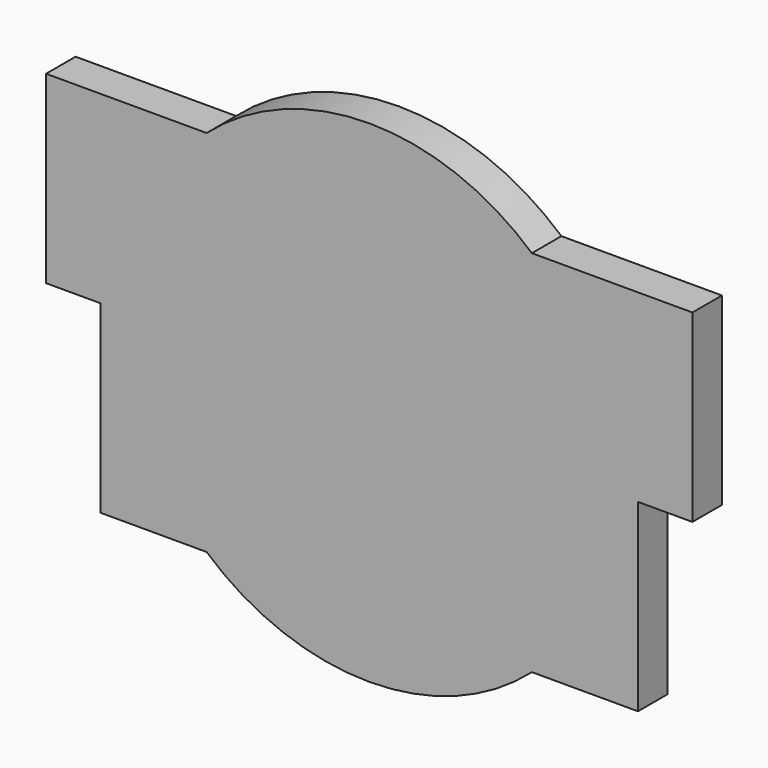
from build123d import *

# Parameters (mm, degrees)
F2_DEPTH = 2.1
F3_DEPTH = 1


with BuildPart() as f2:
    # F0 (on Front) → F2 (new body)
    with BuildSketch(Plane.XZ):
        with BuildLine():
            Line((-15.3, -10.5), (-9.2601295887, -10.5))
            ThreePointArc((-9.2601295887, -10.5), (0, -14), (9.2601295887, -10.5))
            Line((9.2601295887, -10.5), (15.3, -10.5))
            Line((15.3, -10.5), (15.3, 0))
            Line((15.3, 0), (18.4, 0))
            Line((18.4, 0), (18.4, 10.5))
            Line((18.4, 10.5), (9.2601295887, 10.5))
            ThreePointArc((9.2601295887, 10.5), (0, 14), (-9.2601295887, 10.5))
            Line((-9.2601295887, 10.5), (-18.4, 10.5))
            Line((-18.4, 10.5), (-18.4, 0))
            Line((-18.4, 0), (-15.3, 0))
            Line((-15.3, 0), (-15.3, -10.5))
        make_face()
    extrude(amount=F2_DEPTH)

    # F1 (on face) → F3 (cut)
    with BuildSketch(Plane.XZ):
        with BuildLine():
            add(Edge.make_bspline(
                [(-4.553868569, 7.5308077656), (-4.6187022127, 7.4665670768), (-4.7565465162, 7.3187932446), (-4.9689885783, 7.0481481864), (-5.1335006645, 6.7492444591), (-5.325903897, 6.4242233465), (-5.5158362824, 6.1706517061), (-5.6078179544, 5.9937013025), (-5.7446160317, 5.7081404625), (-5.9033298953, 5.2508820338), (-6.0791242374, 5.0130361926), (-6.1594103264, 4.6778886253), (-6.2778532417, 4.423662996), (-6.3326507428, 4.0777117905), (-6.4091625058, 3.7084680855), (-6.4143553131, 3.4672066463), (-6.4405345633, 3.206198915), (-6.4704656386, 2.8821690528), (-6.4827002242, 2.6416036699), (-6.477285954, 2.340550274), (-6.4497255377, 2.0112274522), (-6.3945977245, 1.6518171349), (-6.3058092302, 1.3107543234), (-6.178045217, 0.9102863772), (-6.0168086448, 0.4843102189), (-5.8067367239, 0.1110443935), (-5.5419287895, -0.2591563892), (-5.1870348593, -0.5372182371), (-4.8204833819, -0.9295960711), (-4.4223128535, -1.2049518241), (-4.0850736908, -1.4024631663), (-3.6676805295, -1.4866489323), (-3.2627988734, -1.4647949692), (-2.7150407813, -1.4643963241), (-2.2319229179, -1.2214576279), (-1.948150958, -0.8965008756), (-1.4717270817, -0.3356420109), (-1.2807784587, 0.4096518105), (-1.1258012801, 1.3572900633), (-1.2330035732, 2.4815070998), (-1.9394792256, 4.2241027355), (-2.547370048, 4.696480943), (-3.0764005964, 5.0550053418), (-3.4887921065, 5.2979975007)],
                knots=[0, 0, 0, 0, 0.019506614, 0.0406991901, 0.0619522455, 0.0843997269, 0.1045858515, 0.1204637254, 0.140829126, 0.1660332299, 0.1858936277, 0.2066630462, 0.2258582696, 0.2473287577, 0.2695866446, 0.2872621644, 0.3057715473, 0.3263761743, 0.3442477951, 0.3638921092, 0.3848524344, 0.406607831, 0.4280943849, 0.451564885, 0.4760230289, 0.4997634827, 0.5239299937, 0.54825645, 0.5748292024, 0.6000076139, 0.6225454425, 0.6456970089, 0.6688611146, 0.6955820098, 0.7215715274, 0.7453352167, 0.7758057667, 0.8075897214, 0.8423585362, 0.8816806384, 0.9305342375, 0.9615470791, 1, 1, 1, 1], degree=3))
            ThreePointArc((-4.553868569, 7.5308077656), (0, -9.4031992956), (4.553868569, 7.5308077656))
            add(Edge.make_bspline(
                [(4.553868569, 7.5308077656), (4.6187022127, 7.4665670768), (4.7565465162, 7.3187932446), (4.9689885783, 7.0481481864), (5.1335006645, 6.7492444591), (5.325903897, 6.4242233465), (5.5158362824, 6.1706517061), (5.6078179544, 5.9937013025), (5.7446160317, 5.7081404625), (5.9033298953, 5.2508820338), (6.0791242374, 5.0130361926), (6.1594103264, 4.6778886253), (6.2778532417, 4.423662996), (6.3326507428, 4.0777117905), (6.4091625058, 3.7084680855), (6.4143553131, 3.4672066463), (6.4405345633, 3.206198915), (6.4704656386, 2.8821690528), (6.4827002242, 2.6416036699), (6.477285954, 2.340550274), (6.4497255377, 2.0112274522), (6.3945977245, 1.6518171349), (6.3058092302, 1.3107543234), (6.178045217, 0.9102863772), (6.0168086448, 0.4843102189), (5.8067367239, 0.1110443935), (5.5419287895, -0.2591563892), (5.1870348593, -0.5372182371), (4.8204833819, -0.9295960711), (4.4223128535, -1.2049518241), (4.0850736908, -1.4024631663), (3.6676805295, -1.4866489323), (3.2627988734, -1.4647949692), (2.7150407813, -1.4643963241), (2.2319229179, -1.2214576279), (1.948150958, -0.8965008756), (1.4717270817, -0.3356420109), (1.2807784587, 0.4096518105), (1.1258012801, 1.3572900633), (1.2330035732, 2.4815070998), (1.9394792256, 4.2241027355), (2.547370048, 4.696480943), (3.0764005964, 5.0550053418), (3.4887921065, 5.2979975007)],
                knots=[0, 0, 0, 0, 0.019506614, 0.0406991901, 0.0619522455, 0.0843997269, 0.1045858515, 0.1204637254, 0.140829126, 0.1660332299, 0.1858936277, 0.2066630462, 0.2258582696, 0.2473287577, 0.2695866446, 0.2872621644, 0.3057715473, 0.3263761743, 0.3442477951, 0.3638921092, 0.3848524344, 0.406607831, 0.4280943849, 0.451564885, 0.4760230289, 0.4997634827, 0.5239299937, 0.54825645, 0.5748292024, 0.6000076139, 0.6225454425, 0.6456970089, 0.6688611146, 0.6955820098, 0.7215715274, 0.7453352167, 0.7758057667, 0.8075897214, 0.8423585362, 0.8816806384, 0.9305342375, 0.9615470791, 1, 1, 1, 1], degree=3))
            Line((3.4887921065, 5.2979975007), (2.4524901528, 6.4234398305))
            add(Edge.make_bspline(
                [(2.4524901528, 6.4234398305), (2.2297429875, 6.2878136207), (1.8228713552, 6.0378161424), (1.3990289295, 5.710633014), (0.756766865, 4.6105836099), (0.8972356823, 6.1851388125), (1.4461682012, 6.4381395116), (1.6841560137, 6.7705644067)],
                knots=[0, 0, 0, 0, 0.1888859602, 0.3662382219, 0.5575323243, 0.7689761852, 1, 1, 1, 1], degree=3))
            Line((1.6841560137, 6.7705644067), (0, 8.7554274831))
            Line((0, 8.7554274831), (-1.6841560137, 6.7705644067))
            add(Edge.make_bspline(
                [(-2.4524901528, 6.4234398305), (-2.2297429875, 6.2878136207), (-1.8228713552, 6.0378161424), (-1.3990289295, 5.710633014), (-0.756766865, 4.6105836099), (-0.8972356823, 6.1851388125), (-1.4461682012, 6.4381395116), (-1.6841560137, 6.7705644067)],
                knots=[0, 0, 0, 0, 0.1888859602, 0.3662382219, 0.5575323243, 0.7689761852, 1, 1, 1, 1], degree=3))
            Line((-2.4524901528, 6.4234398305), (-3.4887921065, 5.2979975007))
        make_face()
    extrude(amount=F3_DEPTH, mode=Mode.SUBTRACT)


solid = f2.part
